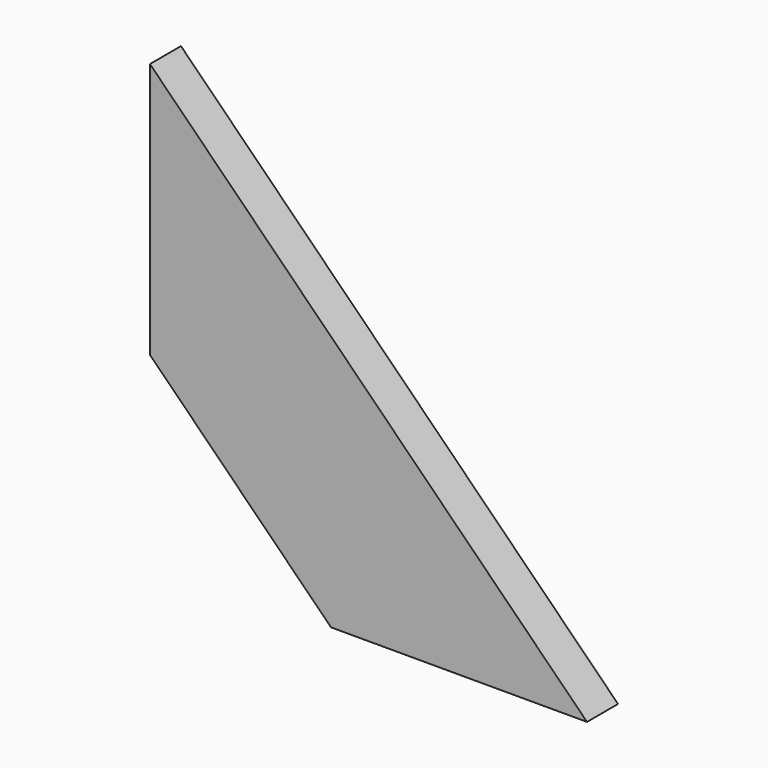
from build123d import *

# Parameters (mm, degrees)
PAD_DEPTH = 19.05


with BuildPart() as part:
    # Sketch → Pad (new body)
    with BuildSketch(Plane.XZ):
        Polygon((0, 88.9), (88.9, 0), (214.623586, 0), (0, 214.623586), align=None)
    extrude(amount=PAD_DEPTH)


solid = part.part
